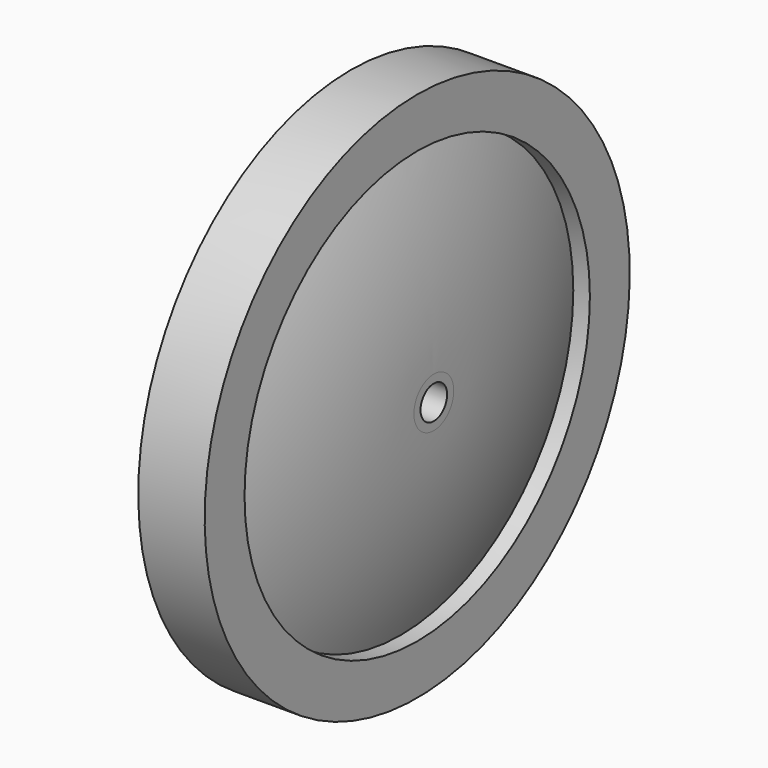
from build123d import *

# Parameters (mm, degrees)
F2_R     = 6.35
F3_DEPTH = 38.101


with BuildPart() as f1:
    # F0 (on Front) → F1 (revolve)
    with BuildSketch(Plane.XZ):
        with BuildLine():
            Line((0, 101.6), (0, 0))
            Line((0, 0), (19.05, 0))
            Line((19.05, 0), (19.05, 9.525))
            ThreePointArc((19.05, 9.525), (15.851349, 46.585561), (6.35, 82.55))
            Line((6.35, 82.55), (12.7, 82.55))
            Line((12.7, 82.55), (12.7, 101.6))
            Line((12.7, 101.6), (0, 101.6))
        make_face()
        with BuildLine():
            Line((-19.05, 0), (0, 0))
            Line((0, 0), (0, 101.6))
            Line((0, 101.6), (-12.7, 101.6))
            Line((-12.7, 101.6), (-12.7, 82.55))
            Line((-12.7, 82.55), (-6.35, 82.55))
            ThreePointArc((-6.35, 82.55), (-15.851349, 46.585561), (-19.05, 9.525))
            Line((-19.05, 9.525), (-19.05, 0))
        make_face()
    revolve(axis=Axis((9.525, 0, 0), (1, 0, 0)))

    # F2 (on face) → F3 (cut, through all)
    with BuildSketch(Plane.YZ.offset(19.05)):
        Circle(F2_R)
    extrude(amount=-F3_DEPTH, mode=Mode.SUBTRACT)


solid = f1.part
